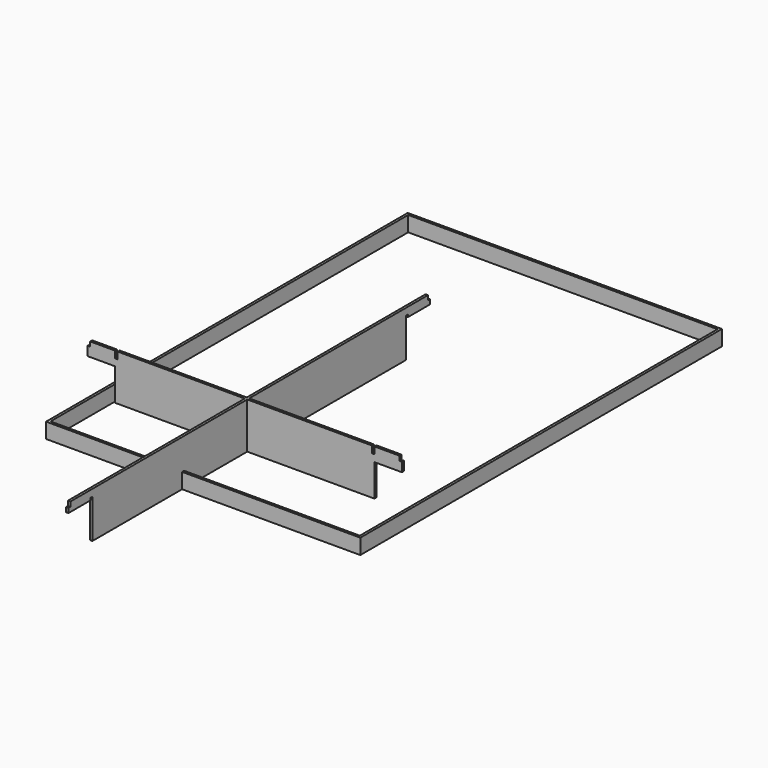
from build123d import *

# Parameters (mm, degrees)
F1_DEPTH = 16
F3_DEPTH = 16
F4_W     = 2052
F4_H     = 2952
F4_W_2   = 2020
F4_H_2   = 2920
F5_DEPTH = 100


with BuildPart() as f1:
    # F0 (on Front) → F1 (new body)
    with BuildSketch(Plane.XZ):
        Polygon((-846, 210), (-846, 0), (846, 0), (846, 210), (1026, 210), (1026, 270), (1010, 270), (1010, 300), (846, 300), (846, 255), (830, 255), (830, 300), (-830, 300), (-830, 255), (-846, 255), (-846, 300), (-1010, 300), (-1010, 270), (-1026, 270), (-1026, 210), align=None)
    extrude(amount=F1_DEPTH)


with BuildPart() as f3:
    # F2 (on Right) → F3 (new body)
    with BuildSketch(Plane.YZ):
        Polygon((-1280, 255), (-1280, 0), (1280, 0), (1280, 255), (1296, 255), (1296, 240), (1476, 240), (1476, 270), (1460, 270), (1460, 300), (-1460, 300), (-1460, 270), (-1476, 270), (-1476, 240), (-1296, 240), (-1296, 255), align=None)
    extrude(amount=F3_DEPTH)


with BuildPart() as f5:
    # F4 (on Top) → F5 (new body)
    with BuildSketch(Plane.XY):
        with Locations((153.89166, 928.048733)):
            Rectangle(F4_W, F4_H)
        with Locations((153.89166, 928.048733)):
            Rectangle(F4_W_2, F4_H_2, mode=Mode.SUBTRACT)
    extrude(amount=F5_DEPTH)


solid = Compound([f1.part, f3.part, f5.part])
